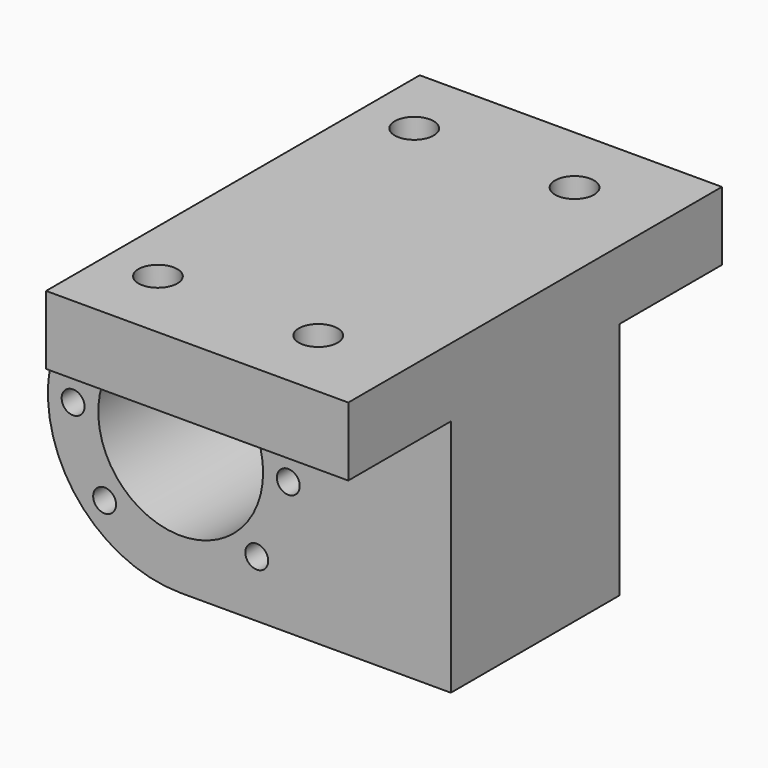
from build123d import *

# Parameters (mm, degrees)
SKETCH_R        = 18
PAD_DEPTH       = 102
SKETCH001_R     = 2.5
POCKET_DEPTH    = 60
SKETCH002_W     = 52.1799999732
SKETCH002_H     = 28
POCKET001_DEPTH = 88.001
SKETCH003_R     = 4.25
POCKET002_DEPTH = 67.1809999732
SKETCH004_R     = 6.8
POCKET003_DEPTH = 6.3
SKETCH005_W     = 11.6986626704
SKETCH005_H     = 15
POCKET004_DEPTH = 28
SKETCH006_W     = 11.6986626704
SKETCH006_H     = 15
POCKET005_DEPTH = 28
SKETCH007_W     = 13
SKETCH007_H     = 52.1799999732
PAD001_DEPTH    = 28


with BuildPart() as part:
    # Sketch → Pad (new body)
    with BuildSketch(Plane.XZ):
        with BuildLine():
            ThreePointArc((-22.8675555461, 17.834654562), (-26.0598687385, -12.7233345209), (-0.0012478604, -28.9999999732))
            Line((-0.0012478604, -28.9999999732), (59, -28.9999999732))
            Line((59, 38.18), (59, -28.9999999732))
            Line((-7, 38.18), (59, 38.18))
            Line((-22.8675555461, 17.834654562), (-7, 38.18))
        make_face()
        Circle(SKETCH_R, mode=Mode.SUBTRACT)
    extrude(amount=PAD_DEPTH)

    # Sketch001 (on Face8 of Pad) → Pocket (cut)
    with BuildSketch(Plane.XZ.offset(102)):
        with Locations((-16.6170093579, 16.6170093579)):
            Circle(SKETCH001_R)
        with Locations((-23.5, 0)):
            Circle(SKETCH001_R)
        with Locations((-16.6170093579, -16.6170093579)):
            Circle(SKETCH001_R)
        with Locations((16.6170093579, -16.6170093579)):
            Circle(SKETCH001_R)
        with Locations((23.5, 0)):
            Circle(SKETCH001_R)
        with Locations((16.6170093579, 16.6170093579)):
            Circle(SKETCH001_R)
    extrude(amount=-POCKET_DEPTH, mode=Mode.SUBTRACT)

    # Sketch002 (on Face7 of Pocket) → Pocket001 (cut, through all)
    with BuildSketch(Plane(origin=(59, 0, 0), x_dir=(0, 0, 1), z_dir=(1, 0, 0))):
        with Locations((-2.9099999866, 88)):
            Rectangle(SKETCH002_W, SKETCH002_H)
        with Locations((-2.9099999866, 14)):
            Rectangle(SKETCH002_W, SKETCH002_H)
    extrude(amount=-POCKET001_DEPTH, mode=Mode.SUBTRACT)

    # Sketch003 (on Face17 of Pocket001) → Pocket002 (cut, through all)
    with BuildSketch(Plane(origin=(0, 0, 38.18), x_dir=(-1, 0, 0), z_dir=(0, 0, 1))):
        with Locations((-39.5284801247, 85.8654773551)):
            Circle(SKETCH003_R)
        with Locations((-4.5184801247, 85.8654773551)):
            Circle(SKETCH003_R)
        with Locations((-39.5284801247, 15.8954773551)):
            Circle(SKETCH003_R)
        with Locations((-4.5184801247, 15.8954773551)):
            Circle(SKETCH003_R)
    extrude(amount=-POCKET002_DEPTH, mode=Mode.SUBTRACT)

    # Sketch004 (on Face9 of Pocket002) → Pocket003 (cut)
    with BuildSketch(Plane(origin=(0, 0, 23.18), x_dir=(1, 0, 0), z_dir=(0, 0, -1))):
        with Locations((4.5184801247, 85.8654773551)):
            Circle(SKETCH004_R)
        with Locations((39.5284801247, 85.8654773551)):
            Circle(SKETCH004_R)
        with Locations((39.5284801247, 15.8954773551)):
            Circle(SKETCH004_R)
        with Locations((4.5184801247, 15.8954773551)):
            Circle(SKETCH004_R)
    extrude(amount=-POCKET003_DEPTH, mode=Mode.SUBTRACT)

    # Sketch005 (on Face18 of Pocket003) → Pocket004 (cut)
    with BuildSketch(Plane.XZ.offset(102)):
        with Locations((-12.8493313352, 30.68)):
            Rectangle(SKETCH005_W, SKETCH005_H)
    extrude(amount=-POCKET004_DEPTH, mode=Mode.SUBTRACT)

    # Sketch006 (on Face17 of Pocket004) → Pocket005 (cut)
    with BuildSketch(Plane(origin=(0, 0, 0), x_dir=(1, 0, 0), z_dir=(0, 1, 0))):
        with Locations((-12.8493313352, -30.68)):
            Rectangle(SKETCH006_W, SKETCH006_H)
    extrude(amount=-POCKET005_DEPTH, mode=Mode.SUBTRACT)

    # Sketch007 (on Face2 of Pocket005) → Pad001 (join)
    with BuildSketch(Plane(origin=(0, -28, 0), x_dir=(1, 0, 0), z_dir=(0, 1, 0))):
        with Locations((24.5, 2.9099999866)):
            Rectangle(SKETCH007_W, SKETCH007_H)
    extrude(amount=PAD001_DEPTH)


solid = part.part
